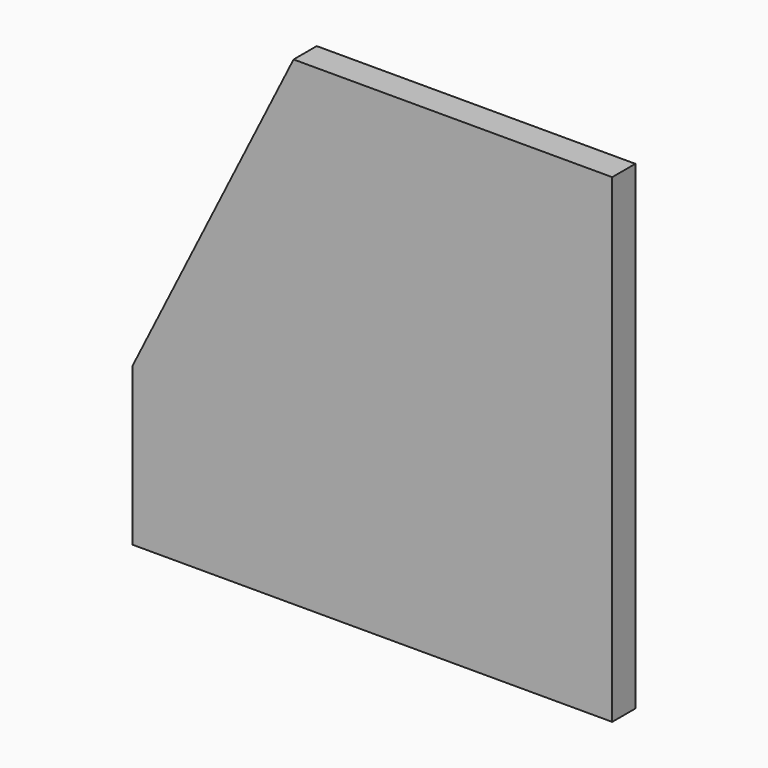
from build123d import *

# Parameters (mm, degrees)
F1_DEPTH = 18


with BuildPart() as f1:
    # F0 (on Front) → F1 (new body)
    with BuildSketch(Plane.XZ):
        Polygon((-199, -149), (-99, -149), (99, -149), (99, -51), (99, 149), (-99, 149), (-99, -51), (-199, -51), align=None)
        Polygon((-199, -149), (-99, -149), (99, -149), (99, -51), (99, 149), (-99, 149), (-99, -51), (-199, -51), align=None)
        Polygon((-99, 149), (-199, -51), (-99, -51), align=None)
    extrude(amount=F1_DEPTH)


solid = f1.part
